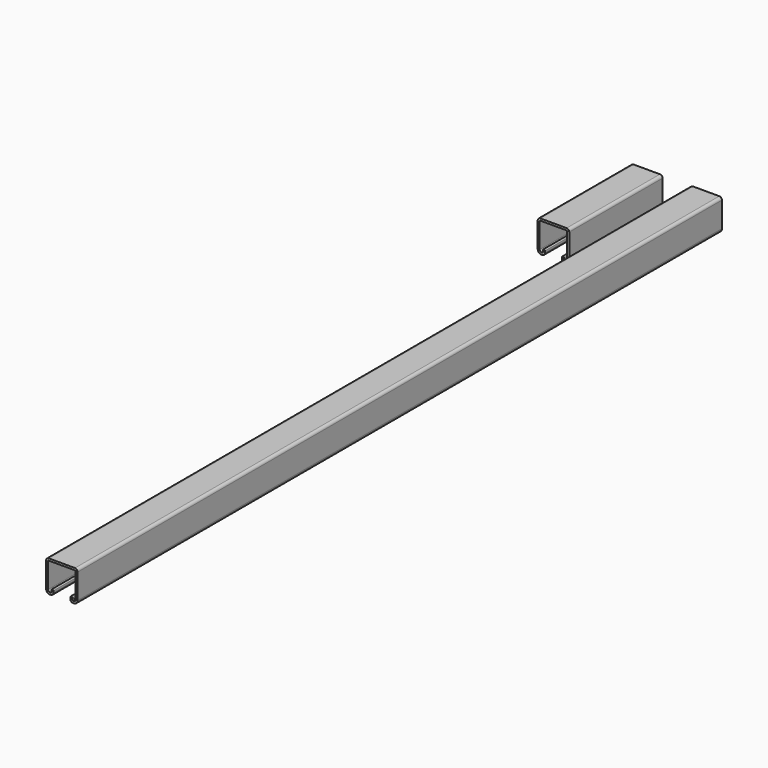
from build123d import *

# Parameters (mm, degrees)
F1_DEPTH = 1053.44185
F2_DEPTH = 152.57071


with BuildPart() as f1:
    # F0 (on Front) → F1 (new body)
    with BuildSketch(Plane.XZ):
        with BuildLine():
            add(Edge.make_bspline(
                [(-0.01242, -44.161416), (-0.01242, -40.52075), (-0.01242, -33.239416), (-0.01242, -22.317416), (-0.01242, -15.036083), (-0.01242, -11.395416)],
                knots=[0, 0, 0, 0, 10.922, 21.844, 32.766, 32.766, 32.766, 32.766], degree=3))
            ThreePointArc((-0.01242, -44.161416), (1.469816, -47.73985), (5.04825, -49.222086))
            add(Edge.make_bspline(
                [(6.06425, -49.222086), (5.951361, -49.222086), (5.725583, -49.222086), (5.386917, -49.222086), (5.161139, -49.222086), (5.04825, -49.222086)],
                knots=[0, 0, 0, 0, 0.338667, 0.677333, 1.016, 1.016, 1.016, 1.016], degree=3))
            ThreePointArc((6.06425, -49.222086), (8.520152, -48.204818), (9.53742, -45.748916))
            add(Edge.make_bspline(
                [(9.53742, -43.405766), (9.53742, -43.666116), (9.53742, -44.186816), (9.53742, -44.967866), (9.53742, -45.488566), (9.53742, -45.748916)],
                knots=[0, 0, 0, 0, 0.78105, 1.5621, 2.34315, 2.34315, 2.34315, 2.34315], degree=3))
            ThreePointArc((9.53742, -43.405766), (8.1915, -42.059846), (6.84558, -43.405766))
            add(Edge.make_bspline(
                [(6.84558, -45.748916), (6.84558, -45.488566), (6.84558, -44.967866), (6.84558, -44.186816), (6.84558, -43.666116), (6.84558, -43.405766)],
                knots=[0, 0, 0, 0, 0.78105, 1.5621, 2.34315, 2.34315, 2.34315, 2.34315], degree=3))
            ThreePointArc((6.84558, -45.748916), (6.616734, -46.3014), (6.06425, -46.530246))
            add(Edge.make_bspline(
                [(5.04825, -46.530246), (5.161139, -46.530246), (5.386917, -46.530246), (5.725583, -46.530246), (5.951361, -46.530246), (6.06425, -46.530246)],
                knots=[0, 0, 0, 0, 0.338667, 0.677333, 1.016, 1.016, 1.016, 1.016], degree=3))
            ThreePointArc((5.04825, -46.530246), (3.373234, -45.836432), (2.67942, -44.161416))
            add(Edge.make_bspline(
                [(2.67942, -11.395416), (2.67942, -15.036083), (2.67942, -22.317416), (2.67942, -33.239416), (2.67942, -40.52075), (2.67942, -44.161416)],
                knots=[0, 0, 0, 0, 10.922, 21.844, 32.766, 32.766, 32.766, 32.766], degree=3))
            ThreePointArc((2.67942, -11.395416), (2.908266, -10.842932), (3.46075, -10.614086))
            add(Edge.make_bspline(
                [(37.81425, -10.614086), (33.997194, -10.614086), (26.363083, -10.614086), (14.911917, -10.614086), (7.277806, -10.614086), (3.46075, -10.614086)],
                knots=[0, 0, 0, 0, 11.451167, 22.902333, 34.3535, 34.3535, 34.3535, 34.3535], degree=3))
            ThreePointArc((37.81425, -10.614086), (38.366734, -10.842932), (38.59558, -11.395416))
            add(Edge.make_bspline(
                [(38.59558, -11.395416), (38.59558, -15.036083), (38.59558, -22.317416), (38.59558, -33.239416), (38.59558, -40.52075), (38.59558, -44.161416)],
                knots=[0, 0, 0, 0, 10.922, 21.844, 32.766, 32.766, 32.766, 32.766], degree=3))
            ThreePointArc((38.59558, -44.161416), (37.901766, -45.836432), (36.22675, -46.530246))
            add(Edge.make_bspline(
                [(35.21075, -46.530246), (35.323639, -46.530246), (35.549417, -46.530246), (35.888083, -46.530246), (36.113861, -46.530246), (36.22675, -46.530246)],
                knots=[0, 0, 0, 0, 0.338667, 0.677333, 1.016, 1.016, 1.016, 1.016], degree=3))
            ThreePointArc((35.21075, -46.530246), (34.658266, -46.3014), (34.42942, -45.748916))
            add(Edge.make_bspline(
                [(34.42942, -43.405766), (34.42942, -43.666116), (34.42942, -44.186816), (34.42942, -44.967866), (34.42942, -45.488566), (34.42942, -45.748916)],
                knots=[0, 0, 0, 0, 0.78105, 1.5621, 2.34315, 2.34315, 2.34315, 2.34315], degree=3))
            ThreePointArc((34.42942, -43.405766), (33.0835, -42.059846), (31.73758, -43.405766))
            add(Edge.make_bspline(
                [(31.73758, -45.748916), (31.73758, -45.488566), (31.73758, -44.967866), (31.73758, -44.186816), (31.73758, -43.666116), (31.73758, -43.405766)],
                knots=[0, 0, 0, 0, 0.78105, 1.5621, 2.34315, 2.34315, 2.34315, 2.34315], degree=3))
            ThreePointArc((31.73758, -45.748916), (32.754848, -48.204818), (35.21075, -49.222086))
            add(Edge.make_bspline(
                [(36.22675, -49.222086), (36.113861, -49.222086), (35.888083, -49.222086), (35.549417, -49.222086), (35.323639, -49.222086), (35.21075, -49.222086)],
                knots=[0, 0, 0, 0, 0.338667, 0.677333, 1.016, 1.016, 1.016, 1.016], degree=3))
            ThreePointArc((36.22675, -49.222086), (39.805184, -47.73985), (41.28742, -44.161416))
            add(Edge.make_bspline(
                [(41.28742, -11.395416), (41.28742, -15.036083), (41.28742, -22.317416), (41.28742, -33.239416), (41.28742, -40.52075), (41.28742, -44.161416)],
                knots=[0, 0, 0, 0, 10.922, 21.844, 32.766, 32.766, 32.766, 32.766], degree=3))
            ThreePointArc((41.28742, -11.395416), (40.270152, -8.939514), (37.81425, -7.922246))
            add(Edge.make_bspline(
                [(3.46075, -7.922246), (7.277806, -7.922246), (14.911917, -7.922246), (26.363083, -7.922246), (33.997194, -7.922246), (37.81425, -7.922246)],
                knots=[0, 0, 0, 0, 11.451167, 22.902333, 34.3535, 34.3535, 34.3535, 34.3535], degree=3))
            ThreePointArc((3.46075, -7.922246), (1.004848, -8.939514), (-0.01242, -11.395416))
        make_face()
    extrude(amount=F1_DEPTH)


with BuildPart() as f2:
    # F0 (on Front) → F2 (new body)
    with BuildSketch(Plane.XZ):
        with BuildLine():
            ThreePointArc((-41.41421, -49.222086), (-37.835776, -47.73985), (-36.35354, -44.161416))
            add(Edge.make_bspline(
                [(-36.35354, -44.161416), (-36.35354, -40.52075), (-36.35354, -33.239416), (-36.35354, -22.317416), (-36.35354, -15.036083), (-36.35354, -11.395416)],
                knots=[0, 0, 0, 0, 10.922, 21.844, 32.766, 32.766, 32.766, 32.766], degree=3))
            ThreePointArc((-36.35354, -11.395416), (-37.370808, -8.939514), (-39.82671, -7.922246))
            add(Edge.make_bspline(
                [(-39.82671, -7.922246), (-43.643765, -7.922246), (-51.277876, -7.922246), (-62.729043, -7.922246), (-70.363154, -7.922246), (-74.18021, -7.922246)],
                knots=[0, 0, 0, 0, 11.451167, 22.902333, 34.3535, 34.3535, 34.3535, 34.3535], degree=3))
            ThreePointArc((-74.18021, -7.922246), (-76.636112, -8.939514), (-77.65338, -11.395416))
            add(Edge.make_bspline(
                [(-77.65338, -11.395416), (-77.65338, -15.036083), (-77.65338, -22.317416), (-77.65338, -33.239416), (-77.65338, -40.52075), (-77.65338, -44.161416)],
                knots=[0, 0, 0, 0, 10.922, 21.844, 32.766, 32.766, 32.766, 32.766], degree=3))
            ThreePointArc((-77.65338, -44.161416), (-76.171144, -47.73985), (-72.59271, -49.222086))
            add(Edge.make_bspline(
                [(-72.59271, -49.222086), (-72.479821, -49.222086), (-72.254043, -49.222086), (-71.915376, -49.222086), (-71.689599, -49.222086), (-71.57671, -49.222086)],
                knots=[0, 0, 0, 0, 0.338667, 0.677333, 1.016, 1.016, 1.016, 1.016], degree=3))
            ThreePointArc((-71.57671, -49.222086), (-69.120808, -48.204818), (-68.10354, -45.748916))
            add(Edge.make_bspline(
                [(-68.10354, -45.748916), (-68.10354, -45.488566), (-68.10354, -44.967866), (-68.10354, -44.186816), (-68.10354, -43.666116), (-68.10354, -43.405766)],
                knots=[0, 0, 0, 0, 0.78105, 1.5621, 2.34315, 2.34315, 2.34315, 2.34315], degree=3))
            ThreePointArc((-68.10354, -43.405766), (-69.44946, -42.059846), (-70.79538, -43.405766))
            add(Edge.make_bspline(
                [(-70.79538, -43.405766), (-70.79538, -43.666116), (-70.79538, -44.186816), (-70.79538, -44.967866), (-70.79538, -45.488566), (-70.79538, -45.748916)],
                knots=[0, 0, 0, 0, 0.78105, 1.5621, 2.34315, 2.34315, 2.34315, 2.34315], degree=3))
            ThreePointArc((-70.79538, -45.748916), (-71.024226, -46.3014), (-71.57671, -46.530246))
            add(Edge.make_bspline(
                [(-71.57671, -46.530246), (-71.689599, -46.530246), (-71.915376, -46.530246), (-72.254043, -46.530246), (-72.479821, -46.530246), (-72.59271, -46.530246)],
                knots=[0, 0, 0, 0, 0.338667, 0.677333, 1.016, 1.016, 1.016, 1.016], degree=3))
            ThreePointArc((-72.59271, -46.530246), (-74.267726, -45.836432), (-74.96154, -44.161416))
            add(Edge.make_bspline(
                [(-74.96154, -11.395416), (-74.96154, -15.036083), (-74.96154, -22.317416), (-74.96154, -33.239416), (-74.96154, -40.52075), (-74.96154, -44.161416)],
                knots=[0, 0, 0, 0, 10.922, 21.844, 32.766, 32.766, 32.766, 32.766], degree=3))
            ThreePointArc((-74.96154, -11.395416), (-74.732694, -10.842932), (-74.18021, -10.614086))
            add(Edge.make_bspline(
                [(-74.18021, -10.614086), (-70.363154, -10.614086), (-62.729043, -10.614086), (-51.277876, -10.614086), (-43.643765, -10.614086), (-39.82671, -10.614086)],
                knots=[0, 0, 0, 0, 11.451167, 22.902333, 34.3535, 34.3535, 34.3535, 34.3535], degree=3))
            ThreePointArc((-39.82671, -10.614086), (-39.274226, -10.842932), (-39.04538, -11.395416))
            add(Edge.make_bspline(
                [(-39.04538, -11.395416), (-39.04538, -15.036083), (-39.04538, -22.317416), (-39.04538, -33.239416), (-39.04538, -40.52075), (-39.04538, -44.161416)],
                knots=[0, 0, 0, 0, 10.922, 21.844, 32.766, 32.766, 32.766, 32.766], degree=3))
            ThreePointArc((-39.04538, -44.161416), (-39.739194, -45.836432), (-41.41421, -46.530246))
            add(Edge.make_bspline(
                [(-41.41421, -46.530246), (-41.527099, -46.530246), (-41.752876, -46.530246), (-42.091543, -46.530246), (-42.317321, -46.530246), (-42.43021, -46.530246)],
                knots=[0, 0, 0, 0, 0.338667, 0.677333, 1.016, 1.016, 1.016, 1.016], degree=3))
            ThreePointArc((-42.43021, -46.530246), (-42.982694, -46.3014), (-43.21154, -45.748916))
            add(Edge.make_bspline(
                [(-43.21154, -45.748916), (-43.21154, -45.488566), (-43.21154, -44.967866), (-43.21154, -44.186816), (-43.21154, -43.666116), (-43.21154, -43.405766)],
                knots=[0, 0, 0, 0, 0.78105, 1.5621, 2.34315, 2.34315, 2.34315, 2.34315], degree=3))
            ThreePointArc((-43.21154, -43.405766), (-44.55746, -42.059846), (-45.90338, -43.405766))
            add(Edge.make_bspline(
                [(-45.90338, -43.405766), (-45.90338, -43.666116), (-45.90338, -44.186816), (-45.90338, -44.967866), (-45.90338, -45.488566), (-45.90338, -45.748916)],
                knots=[0, 0, 0, 0, 0.78105, 1.5621, 2.34315, 2.34315, 2.34315, 2.34315], degree=3))
            ThreePointArc((-45.90338, -45.748916), (-44.886112, -48.204818), (-42.43021, -49.222086))
            add(Edge.make_bspline(
                [(-42.43021, -49.222086), (-42.317321, -49.222086), (-42.091543, -49.222086), (-41.752876, -49.222086), (-41.527099, -49.222086), (-41.41421, -49.222086)],
                knots=[0, 0, 0, 0, 0.338667, 0.677333, 1.016, 1.016, 1.016, 1.016], degree=3))
        make_face()
    extrude(amount=F2_DEPTH)


solid = Compound([f1.part, f2.part])
